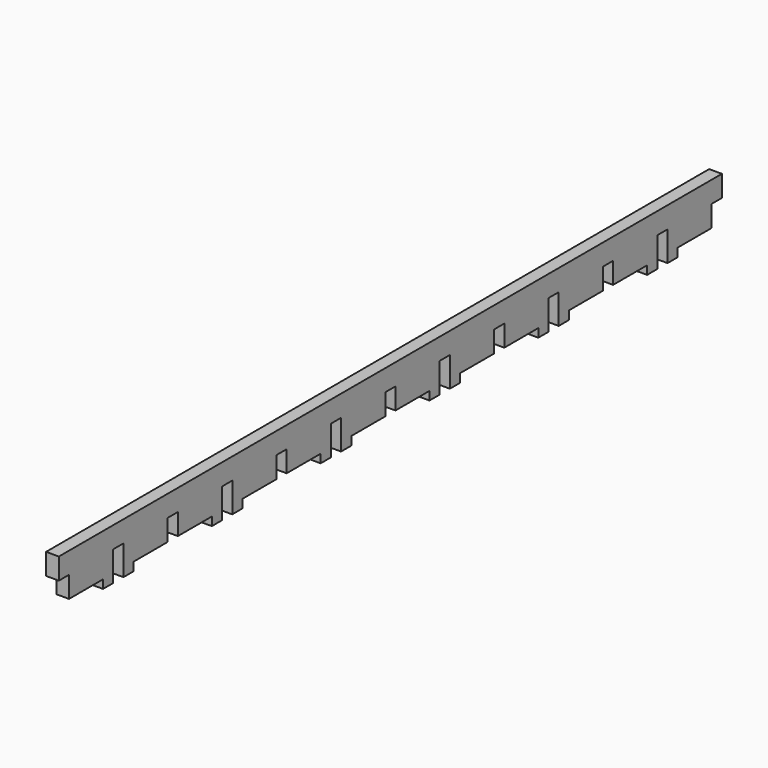
from build123d import *

# Parameters (mm, degrees)
F0_W     = 3
F0_H     = 2
F0_W_2   = 1.5
F0_H_2   = 5
F1_DEPTH = 3


with BuildPart() as f1:
    # F0 (on Right) → F1 (new body)
    with BuildSketch(Plane.YZ):
        Polygon((1.5, 5), (1.5, 0), (11.5, 0), (14.5, 0), (14.5, 5), (14.5, 10), (11.5, 10), (1.5, 10), align=None)
        Polygon((17.5, 5), (17.5, 0), (20.5, 0), (30.5, 0), (30.5, 5), (30.5, 10), (20.5, 10), (17.5, 10), align=None)
        with Locations((45, -1)):
            Rectangle(F0_W, F0_H)
        with Locations((0.75, 7.5)):
            Rectangle(F0_W_2, F0_H_2)
        with Locations((-0.75, 7.5)):
            Rectangle(F0_W_2, F0_H_2)
        with Locations((16, 7.5)):
            Rectangle(F0_W, F0_H_2)
        with Locations((32, 7.5)):
            Rectangle(F0_W, F0_H_2)
        with Locations((48, 7.5)):
            Rectangle(F0_W, F0_H_2)
        with Locations((51, -1)):
            Rectangle(F0_W, F0_H)
        with Locations((64, 7.5)):
            Rectangle(F0_W, F0_H_2)
        with Locations((77, -1)):
            Rectangle(F0_W, F0_H)
        with Locations((80, 7.5)):
            Rectangle(F0_W, F0_H_2)
        with Locations((83, -1)):
            Rectangle(F0_W, F0_H)
        with Locations((95.25, 7.5)):
            Rectangle(F0_W_2, F0_H_2)
        with Locations((96.75, 7.5)):
            Rectangle(F0_W_2, F0_H_2)
        with Locations((109, -1)):
            Rectangle(F0_W, F0_H)
        with Locations((112, 7.5)):
            Rectangle(F0_W, F0_H_2)
        with Locations((115, -1)):
            Rectangle(F0_W, F0_H)
        with Locations((128, 7.5)):
            Rectangle(F0_W, F0_H_2)
        with Locations((141, -1)):
            Rectangle(F0_W, F0_H)
        with Locations((144, 7.5)):
            Rectangle(F0_W, F0_H_2)
        with Locations((147, -1)):
            Rectangle(F0_W, F0_H)
        with Locations((160, 7.5)):
            Rectangle(F0_W, F0_H_2)
        with Locations((173, -1)):
            Rectangle(F0_W, F0_H)
        with Locations((176, 7.5)):
            Rectangle(F0_W, F0_H_2)
        with Locations((179, -1)):
            Rectangle(F0_W, F0_H)
        with Locations((191.25, 7.5)):
            Rectangle(F0_W_2, F0_H_2)
        with Locations((192.75, 7.5)):
            Rectangle(F0_W_2, F0_H_2)
        with Locations((13, -1)):
            Rectangle(F0_W, F0_H)
        with Locations((19, -1)):
            Rectangle(F0_W, F0_H)
        Polygon((33.5, 5), (33.5, 0), (43.5, 0), (46.5, 0), (46.5, 5), (46.5, 10), (33.5, 10), align=None)
        Polygon((49.5, 5), (49.5, 0), (52.5, 0), (62.5, 0), (62.5, 5), (62.5, 10), (49.5, 10), align=None)
        Polygon((78.5, 10), (65.5, 10), (65.5, 5), (65.5, 0), (75.5, 0), (78.5, 0), (78.5, 5), align=None)
        Polygon((94.5, 10), (81.5, 10), (81.5, 5), (81.5, 0), (84.5, 0), (94.5, 0), (94.5, 5), align=None)
        Polygon((110.5, 10), (97.5, 10), (97.5, 5), (97.5, 0), (107.5, 0), (110.5, 0), (110.5, 5), align=None)
        Polygon((126.5, 10), (113.5, 10), (113.5, 5), (113.5, 0), (116.5, 0), (126.5, 0), (126.5, 5), align=None)
        Polygon((142.5, 10), (129.5, 10), (129.5, 5), (129.5, 0), (139.5, 0), (142.5, 0), (142.5, 5), align=None)
        Polygon((158.5, 10), (145.5, 10), (145.5, 5), (145.5, 0), (148.5, 0), (158.5, 0), (158.5, 5), align=None)
        Polygon((171.5, 10), (161.5, 10), (161.5, 5), (161.5, 0), (171.5, 0), (174.5, 0), (174.5, 5), (174.5, 10), align=None)
        Polygon((180.5, 10), (177.5, 10), (177.5, 5), (177.5, 0), (180.5, 0), (190.5, 0), (190.5, 5), (190.5, 10), align=None)
    extrude(amount=F1_DEPTH)


solid = f1.part
